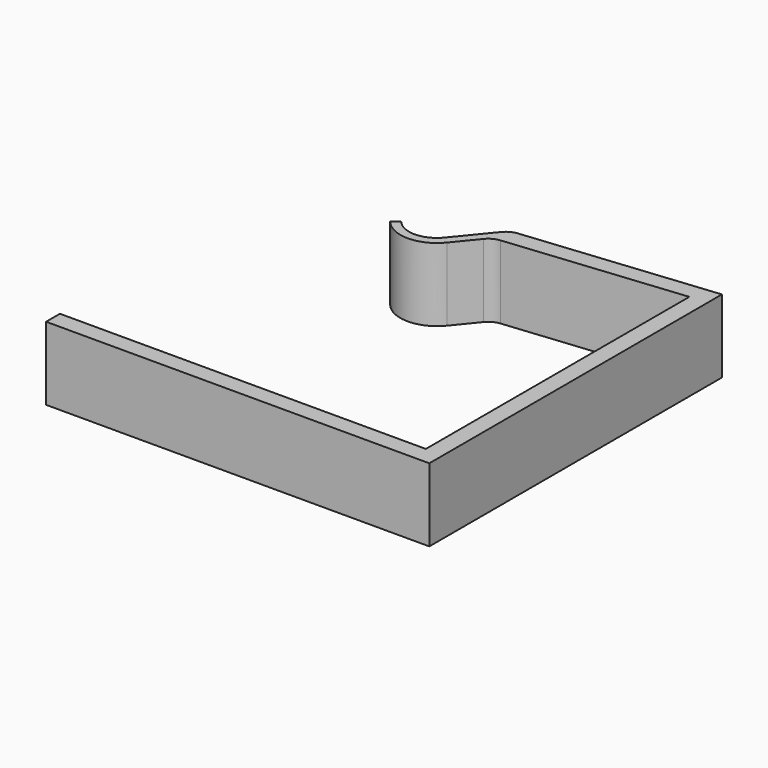
from build123d import *

# Parameters (mm, degrees)
F1_DEPTH = 12.7
F2_R     = 3


with BuildPart() as f1:
    # F0 (on Top) → F1 (new body)
    with BuildSketch(Plane.XY):
        with BuildLine():
            Line((63.5, 0), (0, 0))
            Line((0, 0), (0, -3))
            Line((0, -3), (66.5, -3))
            Line((66.5, -3), (66.5, 60.466625))
            Line((66.5, 60.466625), (32.483424, 57.04783))
            Line((32.483424, 57.04783), (26.729131, 50.007644))
            ThreePointArc((26.729131, 50.007644), (22.973907, 48.226974), (19.218683, 50.007644))
            Line((19.218683, 50.007644), (18.057273, 49.058366))
            ThreePointArc((18.057273, 49.058366), (22.973907, 46.726974), (27.890541, 49.058366))
            Line((27.890541, 49.058366), (31.909149, 53.975))
            Line((31.909149, 53.975), (63.5, 57.15))
            Line((63.5, 57.15), (63.5, 0))
        make_face()
    extrude(amount=F1_DEPTH)

    # F2
    f2_edges = [f1.edges().sort_by_distance(p)[0] for p in [
        (31.909149, 53.975, 6.35),
        (32.483424, 57.04783, 6.35),
    ]]
    fillet(f2_edges, radius=F2_R)


solid = f1.part
